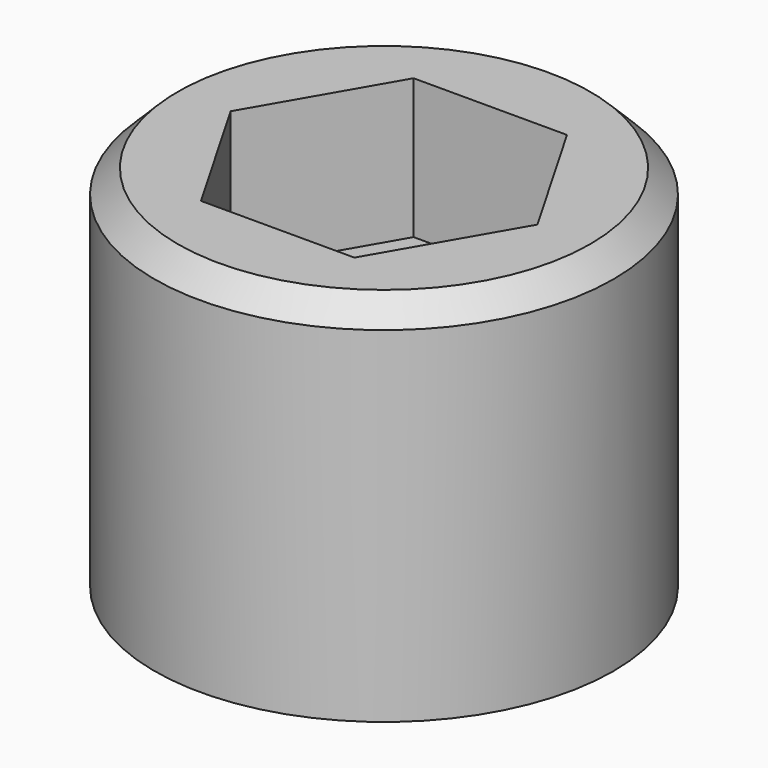
from build123d import *

# Parameters (mm, degrees)
SKETCH_R      = 9.85
SKETCH_R_2    = 3.25
PAD_DEPTH     = 10
SKETCH001_R   = 9.85
SKETCH001_R_2 = 8.15
PAD001_DEPTH  = 5.8
POCKET_DEPTH  = 6
CHAMFER_SIZE  = 1


with BuildPart() as part:
    # Sketch → Pad (new body)
    with BuildSketch(Plane.XY):
        Circle(SKETCH_R)
        Circle(SKETCH_R_2, mode=Mode.SUBTRACT)
    extrude(amount=PAD_DEPTH)

    # Sketch001 (on Face3 of Pad) → Pad001 (join)
    with BuildSketch(Plane(origin=(0, 0, 0), x_dir=(1, 0, 0), z_dir=(0, 0, -1))):
        Circle(SKETCH001_R)
        Circle(SKETCH001_R_2, mode=Mode.SUBTRACT)
    extrude(amount=PAD001_DEPTH)

    # Sketch002 (on Face3 of Pad001) → Pocket (cut)
    with BuildSketch(Plane.XY.offset(10)):
        Polygon((6.581793, 0), (3.290897, 5.7), (-3.290897, 5.7), (-6.581793, 0), (-3.290897, -5.7), (3.290897, -5.7), align=None)
    extrude(amount=-POCKET_DEPTH, mode=Mode.SUBTRACT)

    # Chamfer
    chamfer_edges = [part.edges().sort_by_distance(p)[0] for p in [
        (-9.85, 0, 10),
    ]]
    chamfer(chamfer_edges, length=CHAMFER_SIZE)


solid = part.part
